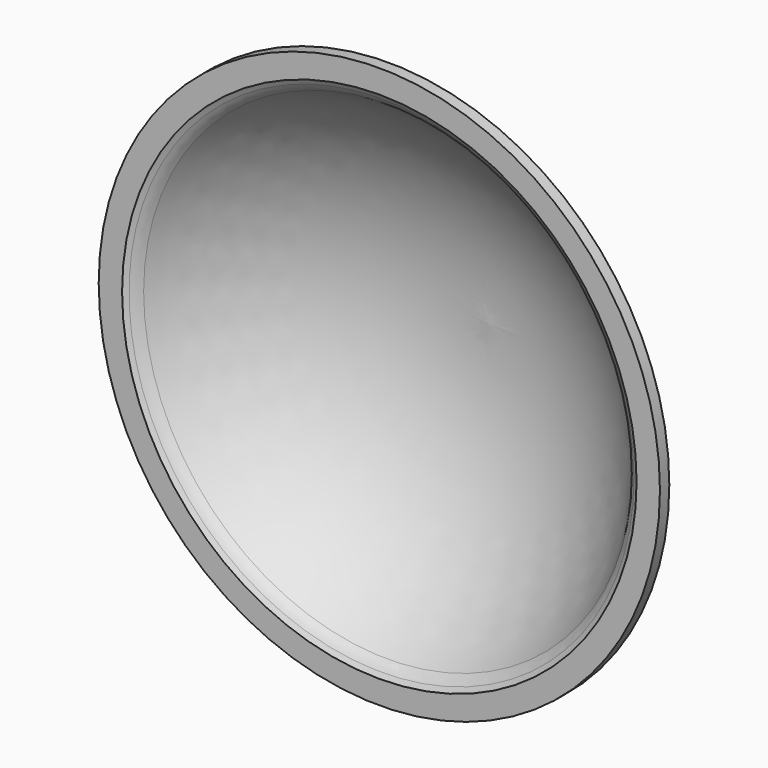
from build123d import *


with BuildPart() as f2:
    # F0 (on Top) → F2 (revolve)
    with BuildSketch(Plane.XY):
        with BuildLine():
            ThreePointArc((73.3559594223, 0), (70.3471213389, 0.7580957279), (68.0567044514, 2.8513721613))
            ThreePointArc((68.0567044514, 2.8513721613), (38.5890825823, 29.0002899384), (0, 36.9368726408))
            Line((0, 36.9368726408), (0, 33.7561680369))
            ThreePointArc((0, 33.7561680369), (37.8233313117, 25.8287138269), (66.3045915869, -0.2915222919))
            ThreePointArc((66.3045915869, -0.2915222919), (67.2940990368, -1.504258262), (68.5501933394, -2.4381108358))
            Line((68.5501933394, -2.4381108358), (69.85, -3.175))
            Line((69.85, -3.175), (76.2, -3.175))
            Line((76.2, -3.175), (76.2, 0))
            Line((76.2, 0), (73.3559594223, 0))
        make_face()
    revolve(axis=Axis((0, 0, 0), (0, -1, 0)))


solid = f2.part
